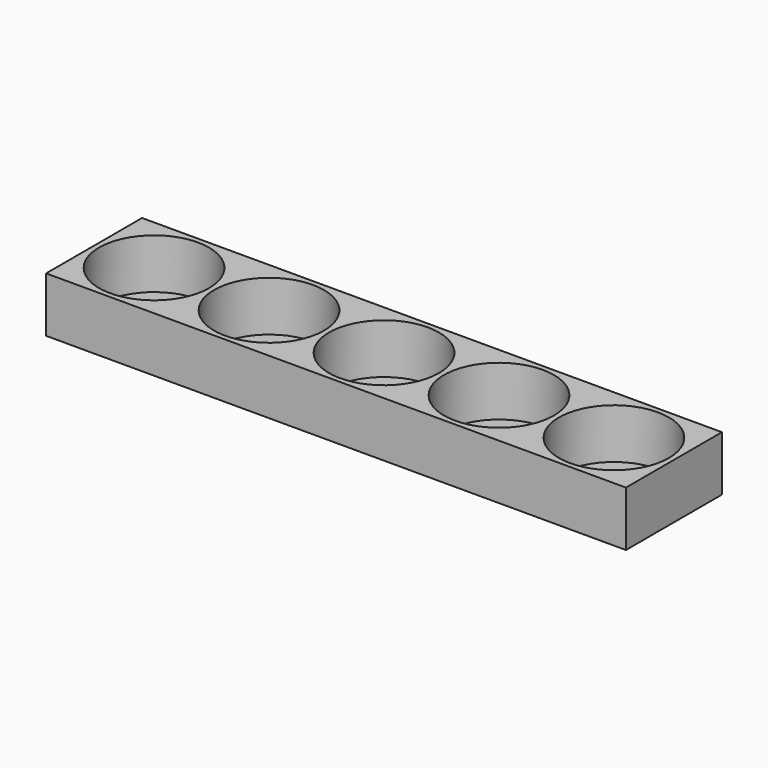
from build123d import *

# Parameters (mm, degrees)
F0_W     = 174
F0_H     = 36
F0_R     = 16.5
F1_DEPTH = 15
F2_W     = 174
F2_H     = 36
F3_DEPTH = 1.5


with BuildPart() as f1:
    # F0 (on Top) → F1 (new body)
    with BuildSketch(Plane.XY):
        with Locations((19.920273, 0)):
            Rectangle(F0_W, F0_H)
        with Locations((-49.079727, 0)):
            Circle(F0_R, mode=Mode.SUBTRACT)
        with Locations((-14.579727, 0)):
            Circle(F0_R, mode=Mode.SUBTRACT)
        with Locations((19.920273, 0)):
            Circle(F0_R, mode=Mode.SUBTRACT)
        with Locations((54.420273, 0)):
            Circle(F0_R, mode=Mode.SUBTRACT)
        with Locations((88.920273, 0)):
            Circle(F0_R, mode=Mode.SUBTRACT)
    extrude(amount=F1_DEPTH)

    # F2 (on face) → F3 (join)
    with BuildSketch(Plane(origin=(0, 0, 0), x_dir=(1, 0, 0), z_dir=(0, 0, -1))):
        with Locations((19.920273, 0)):
            Rectangle(F2_W, F2_H)
    extrude(amount=F3_DEPTH)


solid = f1.part
